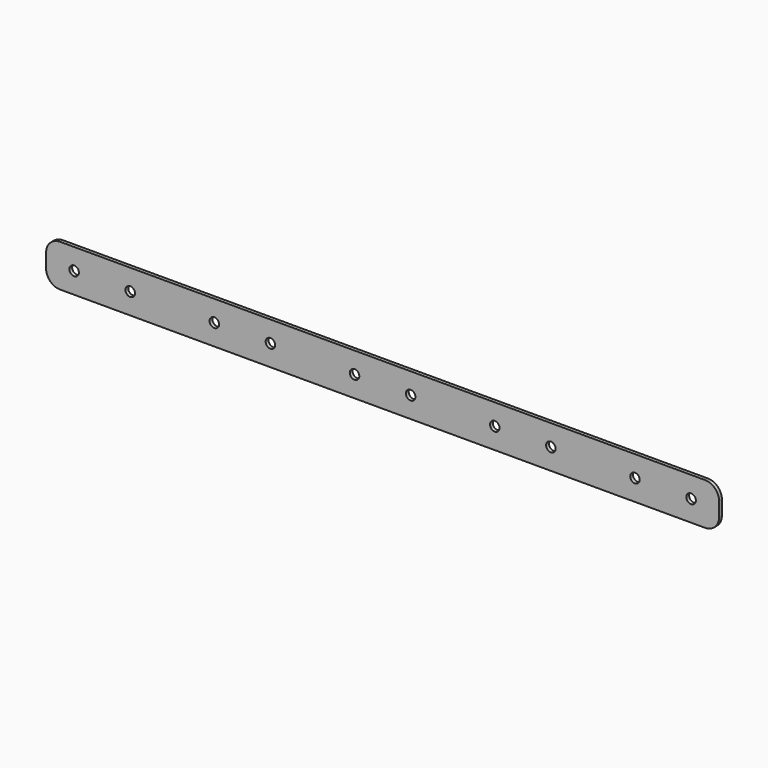
from build123d import *

# Parameters (mm, degrees)
F0_R     = 2.15265
F1_DEPTH = 1.5875


with BuildPart() as f1:
    # F0 (on Front) → F1 (new body)
    with BuildSketch(Plane.XZ):
        with BuildLine():
            Line((146.05, 9.525), (-146.05, 9.525))
            ThreePointArc((-146.05, 9.525), (-150.540128, 7.665128), (-152.4, 3.175))
            Line((-152.4, 3.175), (-152.4, -3.175))
            ThreePointArc((-152.4, -3.175), (-150.540128, -7.665128), (-146.05, -9.525))
            Line((-146.05, -9.525), (-82.55, -9.525))
            Line((-82.55, -9.525), (-19.05, -9.525))
            Line((-19.05, -9.525), (146.05, -9.525))
            ThreePointArc((146.05, -9.525), (150.540128, -7.665128), (152.4, -3.175))
            Line((152.4, -3.175), (152.4, 3.175))
            ThreePointArc((152.4, 3.175), (150.540128, 7.665128), (146.05, 9.525))
        make_face()
        with Locations((-139.7, 0)):
            Circle(F0_R, mode=Mode.SUBTRACT)
        with Locations((-114.3, 0)):
            Circle(F0_R, mode=Mode.SUBTRACT)
        with Locations((-76.2, 0)):
            Circle(F0_R, mode=Mode.SUBTRACT)
        with Locations((-50.8, 0)):
            Circle(F0_R, mode=Mode.SUBTRACT)
        with Locations((-12.7, 0)):
            Circle(F0_R, mode=Mode.SUBTRACT)
        with Locations((12.7, 0)):
            Circle(F0_R, mode=Mode.SUBTRACT)
        with Locations((50.8, 0)):
            Circle(F0_R, mode=Mode.SUBTRACT)
        with Locations((76.2, 0)):
            Circle(F0_R, mode=Mode.SUBTRACT)
        with Locations((114.3, 0)):
            Circle(F0_R, mode=Mode.SUBTRACT)
        with Locations((139.7, 0)):
            Circle(F0_R, mode=Mode.SUBTRACT)
    extrude(amount=F1_DEPTH)


solid = f1.part
